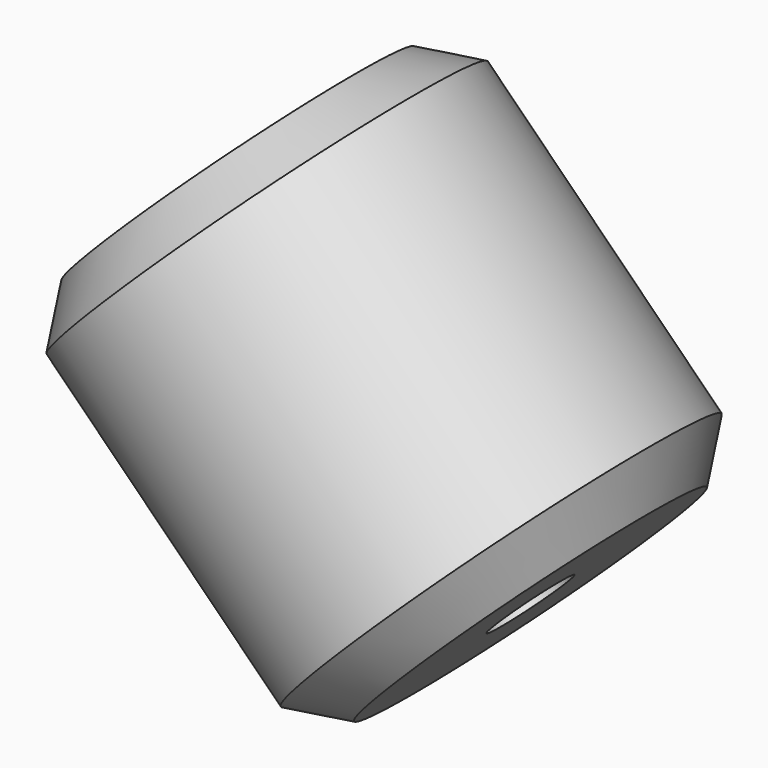
from build123d import *

# Parameters (mm, degrees)
F2_SIZE = 1


with BuildPart() as f1:
    # F0 (on Front) → F1 (revolve)
    with BuildSketch(Plane.XZ):
        Polygon((-7.0357124728, 7.177133829), (-3.5001785669, 3.6415999231), (0.0353553391, 0.1060660172), (2.8637824638, 2.9344931419), (-4.2072853481, 10.0055609538), align=None)
    revolve(axis=Axis((-2.4029260298, 0, 9.6154151979), (0.7071067812, 0, -0.7071067812)))

    # F2
    f2_edges = [f1.edges().sort_by_distance(p)[0] for p in [
        (0.035355, 0, 14.248202),
        (7.106423, 0, 7.177134),
    ]]
    chamfer(f2_edges, length=F2_SIZE)


solid = f1.part
